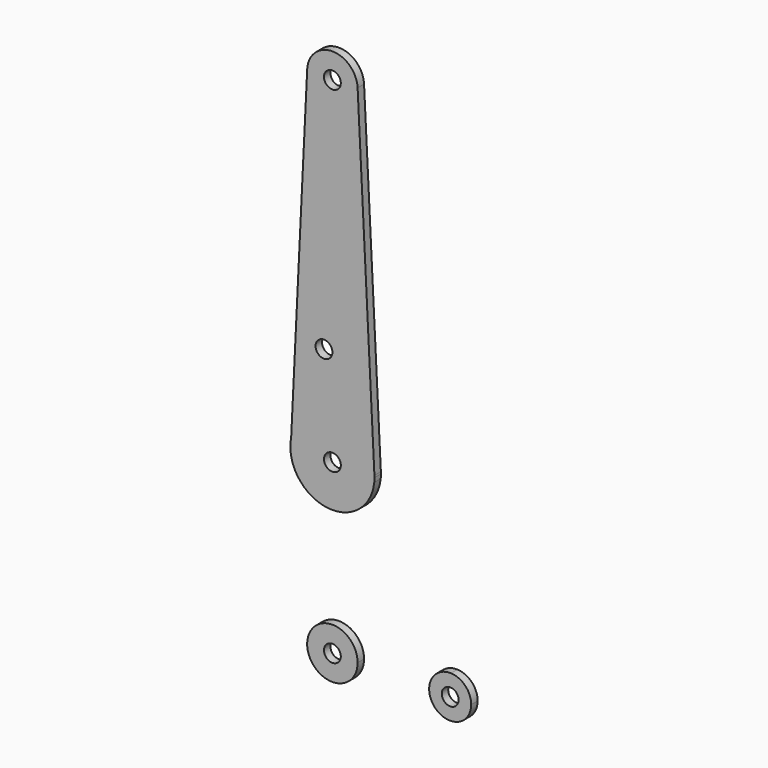
from build123d import *

# Parameters (mm, degrees)
F0_R     = 3.175
F1_DEPTH = 3.048


with BuildPart() as f1:
    # F0 (on Front) → F1 (new body)
    with BuildSketch(Plane.XZ):
        with BuildLine():
            Line((0.6773435479, -9.500885786), (0, -9.525))
            ThreePointArc((0, -9.525), (0.3388863295, -9.5189695375), (0.6773435479, -9.500885786))
        make_face()
        with BuildLine():
            ThreePointArc((0.6773435479, -9.500885786), (6.9705567315, -6.4912990883), (9.525, 0))
            ThreePointArc((9.525, 0), (-6.7351920908, 6.7351920908), (0, -9.525))
            Line((0, -9.525), (0.6773435479, -9.500885786))
        make_face()
        Circle(F0_R, mode=Mode.SUBTRACT)
    extrude(amount=F1_DEPTH)


with BuildPart() as f1b:
    # F0 (on Front) → F1, piece 2 (new body)
    with BuildSketch(Plane.XZ):
        with BuildLine():
            ThreePointArc((-15.5665705131, 66.6140821219), (-15.8562264772, 64.2718205117), (-15.7954255641, 61.9125))
            Line((-15.7954255641, 61.9125), (-15.5665705131, 66.6140821219))
        make_face()
        with BuildLine():
            ThreePointArc((9.5130862993, 190.97625), (-0.006586859, 200.0249977225), (-9.5137358863, 190.963092307))
            ThreePointArc((-9.5137358863, 190.963092307), (-0.2316146396, 180.9778164448), (9.525, 190.5))
            ThreePointArc((9.525, 190.5), (9.522021109, 190.7381994956), (9.5130862993, 190.97625))
        make_face()
        with Locations((0, 190.5)):
            Circle(F0_R, mode=Mode.SUBTRACT)
        with BuildLine():
            ThreePointArc((-15.7954255641, 61.9125), (-0.0060905531, 47.6250011683), (15.7942028036, 61.9003804205))
            ThreePointArc((15.7942028036, 61.9003804205), (15.8547878338, 62.6991705884), (15.875, 63.5))
            ThreePointArc((15.875, 63.5), (15.8700351817, 63.8969991593), (15.8551438321, 64.29375))
            ThreePointArc((15.8551438321, 64.29375), (1.1691039, 79.3318925297), (-15.5665705131, 66.6140821219))
            Line((-15.5665705131, 66.6140821219), (-15.7954255641, 61.9125))
        make_face()
        with Locations((0, 63.5)):
            Circle(F0_R, mode=Mode.SUBTRACT)
        with BuildLine():
            Line((-9.5137358863, 190.963092307), (-15.5665705131, 66.6140821219))
            ThreePointArc((-15.5665705131, 66.6140821219), (1.1691039, 79.3318925297), (15.8551438321, 64.29375))
            Line((15.8551438321, 64.29375), (9.5130862993, 190.97625))
            ThreePointArc((9.5130862993, 190.97625), (9.522021109, 190.7381994956), (9.525, 190.5))
            ThreePointArc((9.525, 190.5), (-0.2316146396, 180.9778164448), (-9.5137358863, 190.963092307))
        make_face()
        with Locations((-3.175, 100.0252)):
            Circle(F0_R, mode=Mode.SUBTRACT)
    extrude(amount=F1_DEPTH)


with BuildPart() as f1c:
    # F0 (on Front) → F1, piece 3 (new body)
    with BuildSketch(Plane.XZ):
        with BuildLine():
            ThreePointArc((44.7324052746, 7.9324746146), (36.5125, 0), (44.7324052746, -7.9324746146))
            ThreePointArc((44.7324052746, -7.9324746146), (50.1616327839, -5.5119104847), (52.3875, 0))
            ThreePointArc((52.3875, 0), (50.1616327839, 5.5119104847), (44.7324052746, 7.9324746146))
        make_face()
        with Locations((44.45, 0)):
            Circle(F0_R, mode=Mode.SUBTRACT)
    extrude(amount=F1_DEPTH)


solid = Compound([f1.part, f1b.part, f1c.part])
